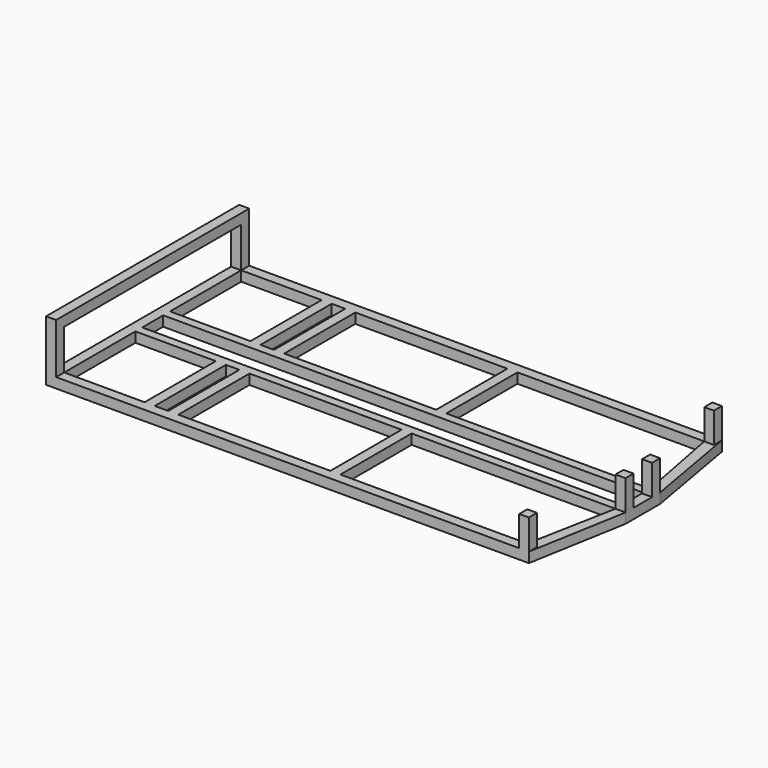
from build123d import *

# Parameters (mm, degrees)
F0_W     = 25.4
F0_H     = 224.7411692651
F1_DEPTH = 25.4
F3_W     = 24.2299882889
F3_H     = 25.4
F4_DEPTH = 76.2
F5_W     = 25.4
F5_H     = 25.4
F6_DEPTH = 127
F7_W     = 25.4
F7_H     = 25.4
F8_DEPTH = 573.024


with BuildPart() as f1:
    # F0 (on Top) → F1 (new body)
    with BuildSketch(Plane.XY):
        Polygon((0, 304.8), (0, 0), (25.4, 0), (25.4, 33.1274457276), (25.4, 54.6588307349), (25.4, 279.4), (228.6, 279.4), (254, 279.4), (288.2145345211, 279.4), (313.6145345211, 279.4), (697.7127194405, 279.4), (723.1127194405, 279.4), (1194.9700117111, 279.4), (1237.9066371274, 54.6588307349), (1237.9066371274, 33.1274457276), (1237.9066371274, 0), (1263.3066371274, 0), (1263.3066371274, 54.6588307349), (1219.2, 304.8), align=None)
        Polygon((25.4, 54.6588307349), (25.4, 33.1274457276), (1237.9066371274, 33.1274457276), (1237.9066371274, 54.6588307349), (723.1127194405, 54.6588307349), (697.7127194405, 54.6588307349), (313.6145345211, 54.6588307349), (288.2145345211, 54.6588307349), (254, 54.6588307349), (228.6, 54.6588307349), align=None)
        with Locations((241.3, 167.0294153674)):
            Rectangle(F0_W, F0_H)
        with Locations((300.9145345211, 167.0294153674)):
            Rectangle(F0_W, F0_H)
        with Locations((710.4127194405, 167.0294153674)):
            Rectangle(F0_W, F0_H)
    extrude(amount=F1_DEPTH)

    # F2: F1 across plane


with BuildPart() as f1_1:
    add(f1.part)
    add(f1.part.mirror(Plane.XZ))

    # F3 (on face) → F4 (join)
    with BuildSketch(Plane.XY.offset(25.4)):
        with Locations((1207.0850058556, -292.1)):
            Rectangle(F3_W, F3_H)
        Polygon((1237.9066371274, -54.6588307349), (1263.3066371274, -54.6588307349), (1263.3066371274, -29.2588307349), (1237.9066371274, -29.2588307349), (1237.9066371274, -33.1274457276), align=None)
        Polygon((1237.9066371274, 29.2572733015), (1263.3066371274, 29.2572733015), (1263.3066371274, 54.6588307349), (1237.9066371274, 54.6588307349), (1237.9066371274, 33.1274457276), align=None)
        with Locations((1207.0850058556, 292.1)):
            Rectangle(F3_W, F3_H)
    extrude(amount=F4_DEPTH)

    # F5 (on face) → F6 (join)
    with BuildSketch(Plane.XY.offset(25.4)):
        with Locations((12.7, 292.1)):
            Rectangle(F5_W, F5_H)
        with Locations((12.7, -292.1)):
            Rectangle(F5_W, F5_H)
    extrude(amount=F6_DEPTH)

    # F7 (on face) → F8 (join)
    with BuildSketch(Plane.XZ.offset(-279.4)):
        with Locations((12.7, 139.7)):
            Rectangle(F7_W, F7_H)
    extrude(amount=F8_DEPTH)


solid = f1_1.part
